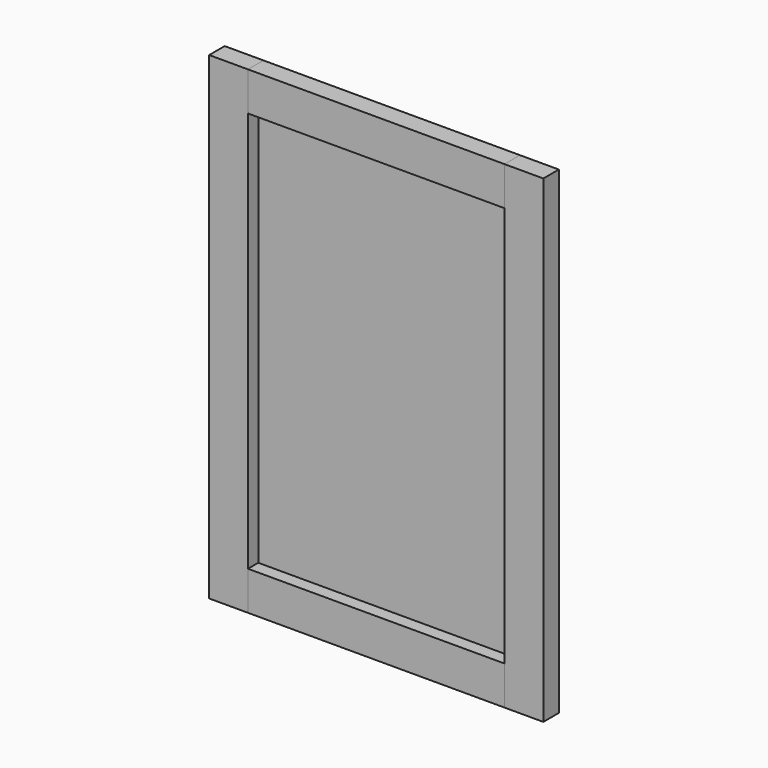
from build123d import *

# Parameters (mm, degrees)
F0_W     = 252.0061
F0_H     = 38.1
F1_DEPTH = 19.05
F2_DEPTH = 19.05
F3_DEPTH = 19.05
F4_DEPTH = 19.05
F5_W     = 290.1061
F5_H     = 431.8
F6_DEPTH = 6.35
F7_W     = 288.4805
F7_H     = 430.1744
F8_DEPTH = 6.35


with BuildPart() as f1:
    # F0 (on Front) → F1 (new body)
    with BuildSketch(Plane.XZ):
        with Locations((-164.10305, 450.85)):
            Rectangle(F0_W, F0_H)
    extrude(amount=F1_DEPTH)


with BuildPart() as f2:
    # F0 (on Front) → F2 (new body)
    with BuildSketch(Plane.XZ):
        Polygon((-328.2061, 0), (-290.1061, 0), (-290.1061, 38.1), (-290.1061, 431.8), (-290.1061, 469.9), (-328.2061, 469.9), align=None)
    extrude(amount=F2_DEPTH)


with BuildPart() as f3:
    # F0 (on Front) → F3 (new body)
    with BuildSketch(Plane.XZ):
        with Locations((-164.10305, 19.05)):
            Rectangle(F0_W, F0_H)
    extrude(amount=F3_DEPTH)


with BuildPart() as f4:
    # F0 (on Front) → F4 (new body)
    with BuildSketch(Plane.XZ):
        Polygon((-38.1, 0), (0, 0), (0, 469.9), (-38.1, 469.9), (-38.1, 431.8), (-38.1, 38.1), align=None)
    extrude(amount=F4_DEPTH)


with BuildPart() as f6_tool:
    # F5 (on face) → F6 (new body)
    with BuildSketch(Plane(origin=(0, 0, 0), x_dir=(-1, 0, 0), z_dir=(0, 1, 0))):
        with Locations((164.10305, 234.95)):
            Rectangle(F5_W, F5_H)
        with Locations((164.10305, 234.95)):
            Rectangle(F5_W, F5_H)
    extrude(amount=-F6_DEPTH)


with BuildPart() as f1_1:
    add(f1.part)

    # F6: cut by f6_tool
    add(f6_tool.part, mode=Mode.SUBTRACT)


with BuildPart() as f2_1:
    add(f2.part)

    # F6: cut by f6_tool
    add(f6_tool.part, mode=Mode.SUBTRACT)


with BuildPart() as f3_1:
    add(f3.part)

    # F6: cut by f6_tool
    add(f6_tool.part, mode=Mode.SUBTRACT)


with BuildPart() as f4_1:
    add(f4.part)

    # F6: cut by f6_tool
    add(f6_tool.part, mode=Mode.SUBTRACT)


with BuildPart() as f8:
    # F7 (on face) → F8 (new body, through all)
    with BuildSketch(Plane(origin=(0, -6.35, 0), x_dir=(-1, 0, 0), z_dir=(0, 1, 0))):
        with Locations((164.10305, 234.95)):
            Rectangle(F7_W, F7_H)
    extrude(amount=F8_DEPTH)


solid = Compound([f1_1.part, f2_1.part, f3_1.part, f4_1.part, f8.part])
